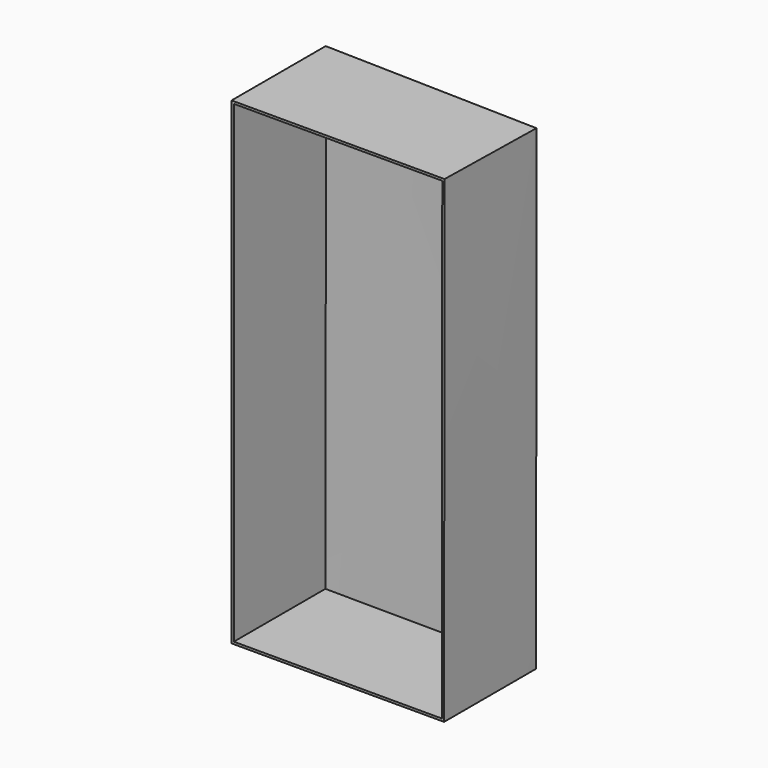
from build123d import *

# Parameters (mm, degrees)
F4_T = 10


with BuildPart() as f3:
    # F0 (on Top) → F3 section 0
    with BuildSketch(Plane.XY):
        Polygon((0, 505), (0, 0), (918, 0), (917.9733111534, 497.9999992848), align=None)
    # F2 (on offset) → F3 section 1
    with BuildSketch(Plane.XY.offset(2090)):
        Polygon((0, 509), (0, 0), (920, 0), (929.6877679676, 484.9032348333), align=None)
    loft()

    # F4
    f4_openings = [f3.faces().sort_by_distance(p)[0] for p in [
        (459.500181, 0, 1045.379035),
    ]]
    offset(amount=F4_T, openings=f4_openings, kind=Kind.INTERSECTION)


solid = f3.part
